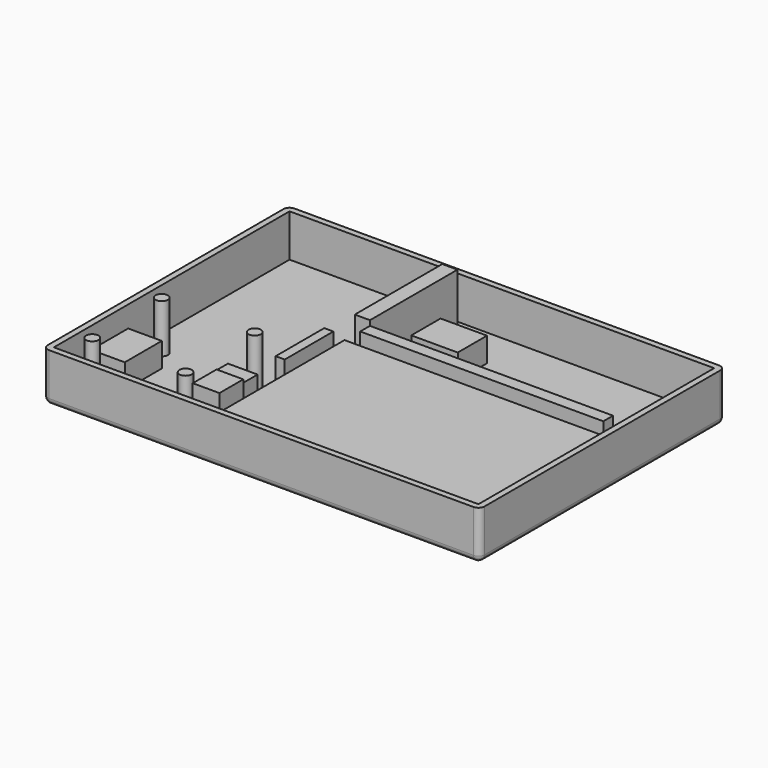
from build123d import *

# Parameters (mm, degrees)
F0_W      = 42
F0_H      = 25
F1_DEPTH  = 7.4
F0_W_2    = 7.6458
F0_H_2    = 6.015226
F0_R      = 1.375
F0_W_3    = 4.883553
F0_H_3    = 8
F0_W_4    = 5.540341
F0_H_4    = 7.62
F0_W_5    = 24
F0_H_5    = 26
F0_W_6    = 4.4
F0_H_6    = 4.9
F2_DEPTH  = 1
F3_DEPTH  = 5
F2_FACE_W = 4.4
F2_FACE_H = 4.9
F4_DEPTH  = 8.7
F5_W      = 71.876958
F5_H      = 50.480289
F6_DEPTH  = 8
F7_T      = -1
F8_R      = 1
F9_W      = 40
F9_H      = 2
F9_W_2    = 1.5
F9_H_2    = 10
F9_W_3    = 2.5
F9_H_3    = 18
F9_R      = 1.012254
F10_DEPTH = 9


with BuildPart() as f1:
    # F0 (on Top) → F1 (new body)
    with BuildSketch(Plane.XY):
        with Locations((-21, 12.5)):
            Rectangle(F0_W, F0_H)
    extrude(amount=F1_DEPTH)


with BuildPart() as f2:
    # F0 (on Top) → F2 (new body)
    with BuildSketch(Plane.XY):
        with Locations((-21, 12.5)):
            Rectangle(F0_W, F0_H)
        Polygon((-39, 28.92908), (0, 28.92908), (0, 46.92908), (-39, 46.92908), (-39, 41.003898), (-31.3542, 41.003898), (-31.3542, 34.988672), (-39, 34.988672), align=None)
        with Locations((-35.1771, 37.996285)):
            Rectangle(F0_W_2, F0_H_2)
        Polygon((-68.612888, 0), (-47.612888, 0), (-47.612888, 6.138186), (-52.496441, 6.138186), (-52.496441, 14.138186), (-47.612888, 14.138186), (-47.612888, 20), (-68.612888, 20), (-68.612888, 13.758186), (-63.072547, 13.758186), (-63.072547, 6.138186), (-68.612888, 6.138186), align=None)
        with Locations((-65.807572, 2.835)):
            Circle(F0_R, mode=Mode.SUBTRACT)
        with Locations((-50.477572, 2.887582)):
            Circle(F0_R, mode=Mode.SUBTRACT)
        with Locations((-65.807572, 17.165)):
            Circle(F0_R, mode=Mode.SUBTRACT)
        with Locations((-50.477572, 17.165)):
            Circle(F0_R, mode=Mode.SUBTRACT)
        with Locations((-50.054665, 10.138186)):
            Rectangle(F0_W_3, F0_H_3)
        with Locations((-65.842717, 9.948186)):
            Rectangle(F0_W_4, F0_H_4)
        with Locations((-56.642572, 33.92908)):
            Rectangle(F0_W_5, F0_H_5)
        with Locations((-44.775128, 2.45)):
            Rectangle(F0_W_6, F0_H_6)
    extrude(amount=F2_DEPTH)

    # F2_face (on face) → F4 (join)
    with BuildSketch(Plane(origin=(-44.775128, 2.45, 1), x_dir=(1, 0, 0), z_dir=(0, 0, 1))):
        Rectangle(F2_FACE_W, F2_FACE_H)
    extrude(amount=F4_DEPTH)


with BuildPart() as f3:
    # F0 (on Top) → F3 (new body)
    with BuildSketch(Plane.XY):
        with Locations((-65.842717, 9.948186)):
            Rectangle(F0_W_4, F0_H_4)
        with Locations((-50.054665, 10.138186)):
            Rectangle(F0_W_3, F0_H_3)
        with Locations((-35.1771, 37.996285)):
            Rectangle(F0_W_2, F0_H_2)
    extrude(amount=F3_DEPTH)


with BuildPart() as f6:
    # F5 (on Top) → F6 (new body)
    with BuildSketch(Plane.XY):
        with Locations((-34.248188, 23.434756)):
            Rectangle(F5_W, F5_H)
    extrude(amount=F6_DEPTH)

    # F7
    f7_openings = [f6.faces().sort_by_distance(p)[0] for p in [
        (-34.248188, 23.434756, 8),
    ]]
    offset(amount=F7_T, openings=f7_openings)

    # F8
    f8_edges = [f6.edges().sort_by_distance(p)[0] for p in [
        (-70.186667, -1.805389, 4),
        (1.690291, -1.805389, 4),
        (1.690291, 48.6749, 4),
        (-70.186667, 48.6749, 4),
        (-34.248188, -1.805389, 0),
        (-34.248188, 48.6749, 0),
        (1.690291, 23.434756, 0),
        (-70.186667, 23.434756, 0),
    ]]
    fillet(f8_edges, radius=F8_R)

    # F9 (on Top) → F10 (join)
    with BuildSketch(Plane.XY):
        with Locations((-20, 26.733725)):
            Rectangle(F9_W, F9_H)
        with Locations((-43.447123, 18.578285)):
            Rectangle(F9_W_2, F9_H_2)
        with Locations((-42.236629, 37.972019)):
            Rectangle(F9_W_3, F9_H_3)
        with Locations((-65.816745, 17.16597)):
            Circle(F9_R)
        with Locations((-65.78964, 2.851029)):
            Circle(F9_R)
        with Locations((-50.459358, 2.884068)):
            Circle(F9_R)
        with Locations((-50.505989, 17.166505)):
            Circle(F9_R)
    extrude(amount=F10_DEPTH)


solid = Compound([f1.part, f2.part, f3.part, f6.part])
